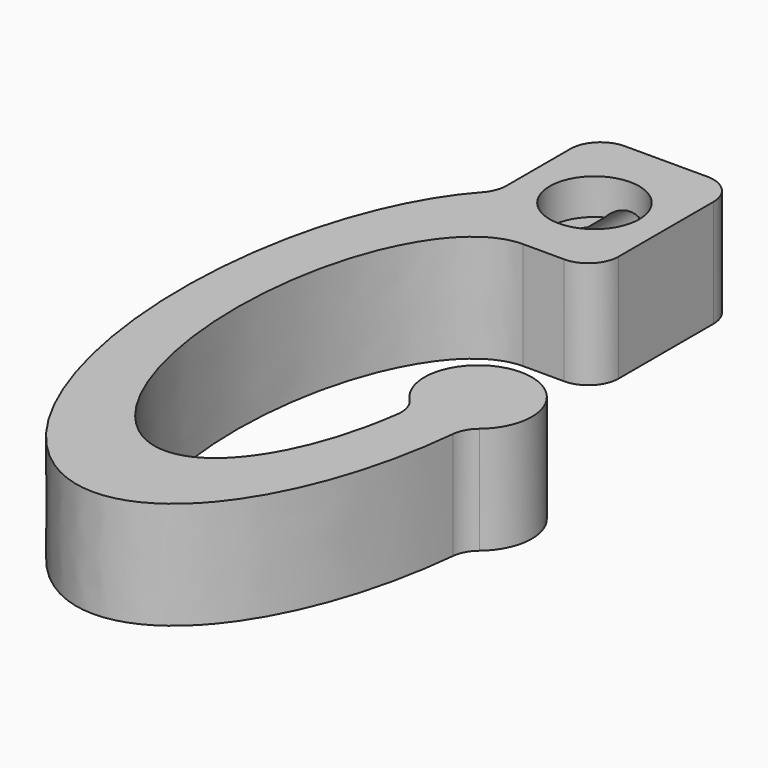
from build123d import *

# Parameters (mm, degrees)
F1_DEPTH = 6
F2_R     = 1.6899494937
F3_R     = 1.55
F4_DEPTH = 8
F5_R     = 1.55
F6_DEPTH = 5
F5_R_2   = 2.5
F7_DEPTH = 2


with BuildPart() as f1:
    # F0 (on Top) → F1 (new body)
    with BuildSketch(Plane.XY):
        with BuildLine():
            add(Edge.make_bspline(
                [(0, 12.5), (-12.6297845017, 12.5), (-4.6511058744, -7.8966891975), (3.3275727529, -28.2933783949), (5.8765340024, -2.522767955)],
                knots=[0, 0, 0, 2.254585855, 2.254585855, 4.5091717099, 4.5091717099, 4.5091717099], degree=2, weights=[1, 0.429106551, 1, 0.429106551, 1]))
            Line((0, 12.5), (4, 12.5))
            Line((4, 12.5), (4, 22.5))
            Line((4, 22.5), (-4, 22.5))
            Line((-4, 22.5), (-4, 15.6766122884))
            add(Edge.make_bspline(
                [(-4, 15.6766122884), (-17.2710632683, 2.8738237646), (-5.3116613856, -14.1271955928), (6.6477404971, -31.1282149502), (8.8957782131, -2.6555231462)],
                knots=[3.6021466453, 3.6021466453, 3.6021466453, 5.6518978151, 5.6518978151, 7.7016489849, 7.7016489849, 7.7016489849], degree=2, weights=[1, 0.5192052222, 1, 0.5192052222, 1]))
            ThreePointArc((8.8957782131, -2.6555231462), (7.6317817021, 2.9971041996), (5.8765340024, -2.522767955))
        make_face()
    extrude(amount=F1_DEPTH)

    # F2
    f2_edges = [f1.edges().sort_by_distance(p)[0] for p in [
        (8.895778, -2.655523, 3),
        (4, 12.5, 3),
        (5.876534, -2.522768, 3),
        (-4, 15.676612, 3),
        (4, 22.5, 3),
        (-4, 22.5, 3),
    ]]
    fillet(f2_edges, radius=F2_R)

    # F3 (on face) → F4 (cut)
    with BuildSketch(Plane(origin=(0, 22.5, 0), x_dir=(-1, 0, 0), z_dir=(0, 1, 0))):
        with Locations((0, 3)):
            Circle(F3_R)
    extrude(amount=-F4_DEPTH, mode=Mode.SUBTRACT)

    # F5 (on face) → F6 (cut)
    with BuildSketch(Plane.XY.offset(6)):
        with Locations((0, 17.5)):
            Circle(F5_R)
    extrude(amount=-F6_DEPTH, mode=Mode.SUBTRACT)

    # F5 (on face) → F7 (cut)
    with BuildSketch(Plane.XY.offset(6)):
        with Locations((0, 17.5)):
            Circle(F5_R_2)
        with Locations((0, 17.5)):
            Circle(F5_R, mode=Mode.SUBTRACT)
    extrude(amount=-F7_DEPTH, mode=Mode.SUBTRACT)


solid = f1.part
